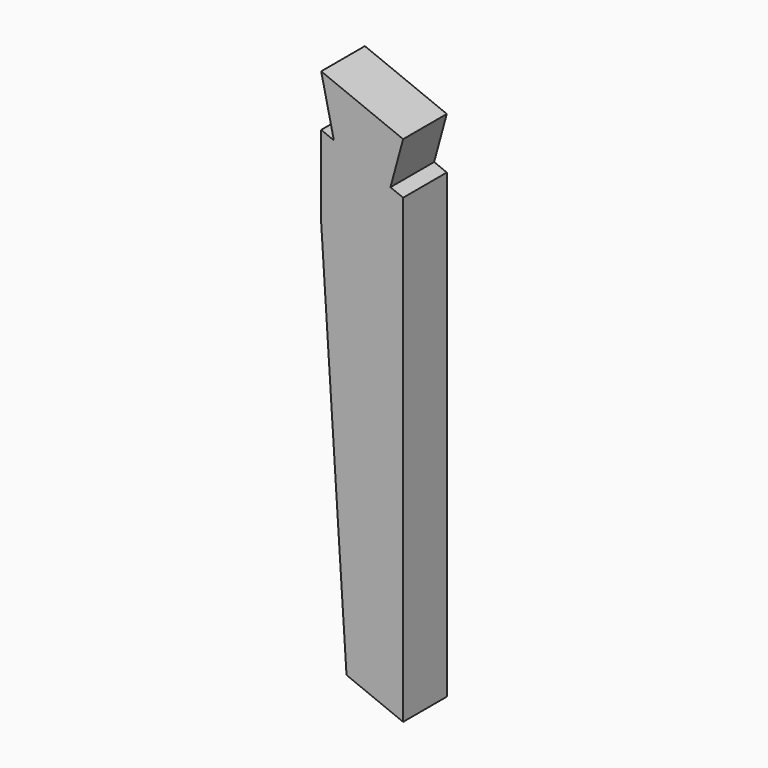
from build123d import *

# Parameters (mm, degrees)
F0_W     = 76.2
F0_H     = 508
F1_DEPTH = 50.8
F3_DEPTH = 50.801
F5_DEPTH = 50.801
F7_DEPTH = 50.801


with BuildPart() as f1:
    # F0 (on Front) → F1 (new body)
    with BuildSketch(Plane.XZ):
        Rectangle(F0_W, F0_H)
        Rectangle(F0_W, F0_H)
    extrude(amount=F1_DEPTH)

    # F2 (on face) → F3 (cut, through all)
    with BuildSketch(Plane.XZ.offset(50.8)):
        Polygon((38.1, -254), (-38.1, -223.2132015914), (-38.1, -254), align=None)
        Polygon((38.1, 223.2132015914), (38.1, 254), (-38.1, 254), align=None)
    extrude(amount=-F3_DEPTH, mode=Mode.SUBTRACT)

    # F4 (on face) → F5 (cut, through all)
    with BuildSketch(Plane.XZ.offset(50.8)):
        Polygon((-26.324765047, 201.3016269516), (-38.1, 254), (-38.1, 206.059130688), align=None)
        Polygon((38.1, 175.2723322793), (38.1, 223.2132015914), (26.324765047, 180.0298360157), align=None)
    extrude(amount=-F5_DEPTH, mode=Mode.SUBTRACT)

    # F6 (on face) → F7 (cut, through all)
    with BuildSketch(Plane.XZ.offset(50.8)):
        Polygon((-14.549530094, -232.7282090641), (-38.1, 129.859130688), (-38.1, -223.2132015914), align=None)
    extrude(amount=-F7_DEPTH, mode=Mode.SUBTRACT)


solid = f1.part
